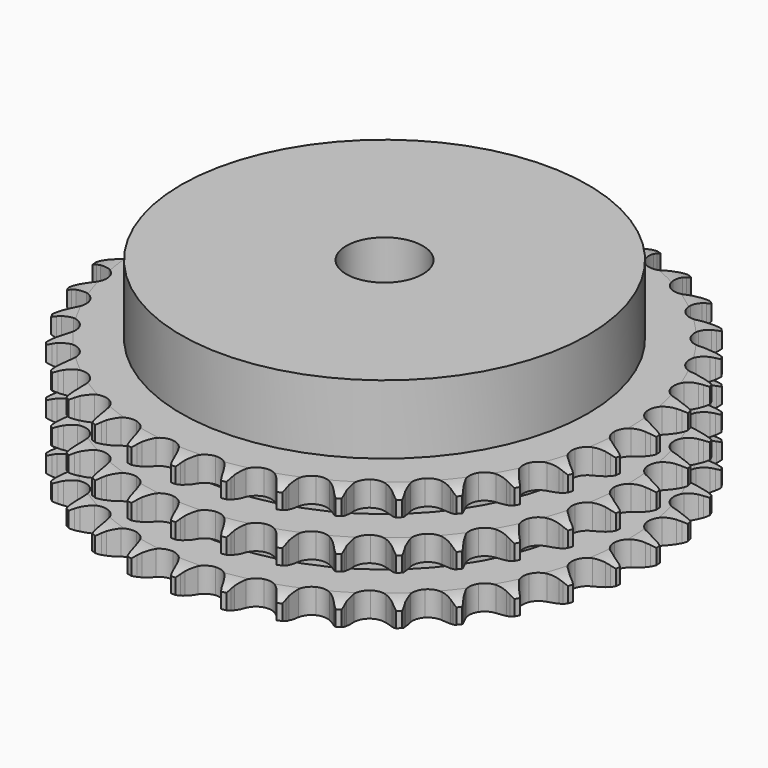
from build123d import *

# Parameters (mm, degrees)
PAD_DEPTH         = 25.6
SKETCH001_R       = 42.5
PAD001_DEPTH      = 40
SKETCH002_R       = 8
POCKET_DEPTH      = 0.001
POCKET_DEPTH_BACK = 40.001


with BuildPart() as part:
    # Sprocket → Pad (new body)
    with BuildSketch(Plane.XY):
        with BuildLine():
            ThreePointArc((-5.018589, 55.76109), (-4.446958, 54.986372), (-4.029689, 54.118712))
            Line((-4.029689, 54.118712), (-3.719914, 53.281922))
            ThreePointArc((-3.719914, 53.281922), (-3.228817, 52.200023), (-2.588432, 51.199231))
            ThreePointArc((-2.588432, 51.199231), (-1.447962, 50.243474), (0, 49.900618))
            ThreePointArc((0, 49.900618), (1.447962, 50.243474), (2.588432, 51.199231))
            ThreePointArc((2.588432, 51.199231), (3.228817, 52.200023), (3.719914, 53.281922))
            Line((3.719914, 53.281922), (4.029689, 54.118712))
            ThreePointArc((4.029689, 54.118712), (4.446958, 54.986372), (5.018589, 55.76109))
            ThreePointArc((5.018589, 55.76109), (5.442702, 54.896754), (5.698339, 53.968531))
            Line((5.698339, 53.968531), (5.853721, 53.089875))
            ThreePointArc((5.853721, 53.089875), (6.143745, 51.937675), (6.595141, 50.838621))
            ThreePointArc((6.595141, 50.838621), (7.546626, 49.694584), (8.910099, 49.098695))
            ThreePointArc((8.910099, 49.098695), (10.396011, 49.177497), (11.688811, 49.914256))
            Line((11.688811, 49.914256), (13.173987, 51.761443))
            ThreePointArc((13.173987, 51.761443), (13.390776, 52.15156), (13.628199, 52.529474))
            ThreePointArc((13.628199, 52.529474), (14.19369, 53.308684), (14.894465, 53.968882))
            ThreePointArc((14.894465, 53.968882), (15.157429, 53.042709), (15.243218, 52.083757))
            Line((15.243218, 52.083757), (15.239213, 51.191477))
            ThreePointArc((15.239213, 51.191477), (15.318843, 50.006007), (15.56674, 48.844015))
            ThreePointArc((15.56674, 48.844015), (16.298659, 47.548469), (17.533821, 46.718699))
            ThreePointArc((17.533821, 46.718699), (19.009924, 46.530915), (20.413501, 47.024995))
            Line((20.413501, 47.024995), (22.204639, 48.577309))
            ThreePointArc((22.204639, 48.577309), (22.487602, 48.922447), (22.788688, 49.251894))
            ThreePointArc((22.788688, 49.251894), (23.484225, 49.91761), (24.291621, 50.442071))
            ThreePointArc((24.291621, 50.442071), (24.384985, 49.483827), (24.298167, 48.524968))
            Line((24.298167, 48.524968), (24.134904, 47.647742))
            ThreePointArc((24.134904, 47.647742), (24.00158, 46.467105), (24.038012, 45.279523))
            ThreePointArc((24.038012, 45.279523), (24.52684, 43.874108), (25.593991, 42.837125))
            ThreePointArc((25.593991, 42.837125), (27.012843, 42.388791), (28.482085, 42.624313))
            Line((28.482085, 42.624313), (30.521614, 43.83186))
            ThreePointArc((30.521614, 43.83186), (30.861657, 44.120927), (31.21673, 44.391319))
            ThreePointArc((31.21673, 44.391319), (32.019957, 44.922143), (32.908024, 45.294009))
            ThreePointArc((32.908024, 45.294009), (32.828786, 44.334494), (32.572153, 43.406546))
            Line((32.572153, 43.406546), (32.254879, 42.57257))
            ThreePointArc((32.254879, 42.57257), (31.912887, 41.434712), (31.736682, 40.25971))
            ThreePointArc((31.736682, 40.25971), (31.966708, 38.789597), (32.831549, 37.578732))
            ThreePointArc((32.831549, 37.578732), (34.147546, 36.884256), (35.635231, 36.85365))
            Line((35.635231, 36.85365), (37.8576, 37.67762))
            ThreePointArc((37.8576, 37.67762), (38.243793, 37.901324), (38.64144, 38.10397))
            ThreePointArc((38.64144, 38.10397), (39.526541, 38.482842), (40.466736, 38.690161))
            ThreePointArc((40.466736, 38.690161), (40.217444, 37.760215), (39.799243, 36.893003))
            Line((39.799243, 36.893003), (39.338156, 36.12908))
            ThreePointArc((39.338156, 36.12908), (38.798487, 35.070573), (38.415309, 33.945916))
            ThreePointArc((38.415309, 33.945916), (38.37914, 32.458356), (39.013874, 31.112526))
            ThreePointArc((39.013874, 31.112526), (40.184719, 30.194231), (41.643032, 29.89848))
            Line((41.643032, 29.89848), (43.976812, 30.312389))
            ThreePointArc((43.976812, 30.312389), (44.396742, 30.463541), (44.824183, 30.591927))
            ThreePointArc((44.824183, 30.591927), (45.76271, 30.80667), (46.724814, 30.84278))
            ThreePointArc((46.724814, 30.84278), (46.31348, 29.972291), (45.747153, 29.193688))
            Line((45.747153, 29.193688), (45.157072, 28.524372))
            ThreePointArc((45.157072, 28.524372), (44.437072, 27.579238), (43.859237, 26.541073))
            ThreePointArc((43.859237, 26.541073), (43.558034, 25.083877), (43.942261, 23.646339))
            ThreePointArc((43.942261, 23.646339), (44.930322, 22.533739), (46.312391, 21.982349))
            Line((46.312391, 21.982349), (48.682573, 21.972894))
            ThreePointArc((48.682573, 21.972894), (49.122744, 22.046635), (49.56624, 22.096636))
            ThreePointArc((49.56624, 22.096636), (50.528028, 22.140347), (51.481118, 22.004086))
            ThreePointArc((51.481118, 22.004086), (50.920962, 21.221032), (50.224712, 20.556064))
            Line((50.224712, 20.556064), (49.524602, 20.002867))
            ThreePointArc((49.524602, 20.002867), (48.647413, 19.201482), (47.893493, 18.283178))
            ThreePointArc((47.893493, 18.283178), (47.336938, 16.903181), (47.458308, 15.420139))
            ThreePointArc((47.458308, 15.420139), (48.231828, 14.148993), (49.493232, 13.359687))
            Line((49.493232, 13.359687), (51.823635, 12.927171))
            ThreePointArc((51.823635, 12.927171), (52.2699, 12.921132), (52.715196, 12.89114))
            ThreePointArc((52.715196, 12.89114), (53.669334, 12.762415), (54.582777, 12.458163))
            ThreePointArc((54.582777, 12.458163), (53.891803, 11.787713), (53.088007, 11.257751))
            Line((53.088007, 11.257751), (52.300371, 10.838454))
            ThreePointArc((52.300371, 10.838454), (51.294186, 10.206576), (50.388412, 9.437646))
            ThreePointArc((50.388412, 9.437646), (49.594394, 8.179203), (49.449006, 6.698323))
            ThreePointArc((49.449006, 6.698323), (49.983123, 5.309488), (51.083319, 4.307634))
            Line((51.083319, 4.307634), (53.299044, 3.465959))
            ThreePointArc((53.299044, 3.465959), (53.737058, 3.380333), (54.169843, 3.271312))
            ThreePointArc((54.169843, 3.271312), (55.085662, 2.974288), (55.9301, 2.511824))
            ThreePointArc((55.9301, 2.511824), (55.130517, 1.975526), (54.24501, 1.597605))
            Line((54.24501, 1.597605), (53.395164, 1.325683))
            ThreePointArc((53.395164, 1.325683), (52.292322, 0.883621), (51.263806, 0.288781))
            ThreePointArc((51.263806, 0.288781), (50.257844, -0.807661), (49.850371, -2.238783))
            ThreePointArc((49.850371, -2.238783), (50.127919, -3.700669), (51.031547, -4.882871))
            Line((51.031547, -4.882871), (53.061377, -6.106652))
            ThreePointArc((53.061377, -6.106652), (53.477063, -6.269112), (53.883427, -6.453658))
            ThreePointArc((53.883427, -6.453658), (54.731493, -6.909435), (55.479784, -7.515247))
            ThreePointArc((55.479784, -7.515247), (54.597291, -7.900155), (53.658533, -8.11389))
            Line((53.658533, -8.11389), (52.773791, -8.229695))
            ThreePointArc((52.773791, -8.229695), (51.609739, -8.467734), (50.49154, -8.869366))
            ThreePointArc((50.49154, -8.869366), (49.305967, -9.768566), (48.649505, -11.103932))
            ThreePointArc((48.649505, -11.103932), (48.661563, -12.591883), (49.339579, -13.916436))
            Line((49.339579, -13.916436), (51.118274, -15.48299))
            ThreePointArc((51.118274, -15.48299), (51.498272, -15.717064), (51.865153, -15.971203))
            ThreePointArc((51.865153, -15.971203), (52.618208, -16.571083), (53.246302, -17.300772))
            ThreePointArc((53.246302, -17.300772), (52.309263, -17.521919), (51.347428, -17.564598))
            Line((51.347428, -17.564598), (50.456226, -17.520565))
            ThreePointArc((50.456226, -17.520565), (49.268377, -17.546929), (48.096433, -17.742444))
            ThreePointArc((48.096433, -17.742444), (46.769355, -18.415501), (45.885004, -19.612192))
            ThreePointArc((45.885004, -19.612192), (45.631184, -21.078384), (46.061796, -22.502715))
            Line((46.061796, -22.502715), (47.532188, -24.361693))
            ThreePointArc((47.532188, -24.361693), (47.864283, -24.659855), (48.17989, -24.97542))
            ThreePointArc((48.17989, -24.97542), (48.813731, -25.700123), (49.301439, -26.530236))
            ThreePointArc((49.301439, -26.530236), (48.339972, -26.580514), (47.385973, -26.450765))
            Line((47.385973, -26.450765), (46.516956, -26.248309))
            ThreePointArc((46.516956, -26.248309), (45.343489, -26.062151), (44.155468, -26.045265))
            ThreePointArc((44.155468, -26.045265), (42.729537, -26.470547), (41.645721, -27.4901))
            ThreePointArc((41.645721, -27.4901), (41.134181, -28.887408), (41.303549, -30.365738))
            Line((41.303549, -30.365738), (42.418378, -32.45739))
            ThreePointArc((42.418378, -32.45739), (42.691897, -32.810059), (42.946086, -33.176906))
            ThreePointArc((42.946086, -33.176906), (43.44034, -34.003139), (43.771988, -34.906996))
            ThreePointArc((43.771988, -34.906996), (42.816994, -34.784789), (41.901495, -34.486782))
            Line((41.901495, -34.486782), (41.082593, -34.132411))
            ThreePointArc((41.082593, -34.132411), (39.961224, -33.739714), (38.79531, -33.510971))
            ThreePointArc((38.79531, -33.510971), (37.316357, -33.674808), (36.06791, -34.484453))
            ThreePointArc((36.06791, -34.484453), (35.315092, -35.767968), (35.217772, -37.252782))
            Line((35.217772, -37.252782), (35.941206, -39.50988))
            ThreePointArc((35.941206, -39.50988), (36.147359, -39.905721), (36.33196, -40.312059))
            ThreePointArc((36.33196, -40.312059), (36.670741, -41.213267), (36.83567, -42.161817))
            ThreePointArc((36.83567, -42.161817), (35.917844, -41.871053), (35.070268, -41.414366))
            Line((35.070268, -41.414366), (34.327801, -40.91947))
            ThreePointArc((34.327801, -40.91947), (33.294572, -40.332855), (32.188239, -39.899606))
            ThreePointArc((32.188239, -39.899606), (30.703799, -39.796733), (29.330847, -40.370448))
            ThreePointArc((29.330847, -40.370448), (28.360947, -41.498915), (28.000067, -42.94249))
            Line((28.000067, -42.94249), (28.308854, -45.29249))
            ThreePointArc((28.308854, -45.29249), (28.441014, -45.718779), (28.550094, -46.15155))
            ThreePointArc((28.550094, -46.15155), (28.722514, -47.098766), (28.715422, -48.061522))
            ThreePointArc((28.715422, -48.061522), (27.864264, -47.611547), (27.111854, -47.010858))
            Line((27.111854, -47.010858), (26.469686, -46.391343))
            ThreePointArc((26.469686, -46.391343), (25.557805, -45.629665), (24.546611, -45.005834))
            ThreePointArc((24.546611, -45.005834), (23.104395, -44.639558), (21.651067, -44.958903))
            ThreePointArc((21.651067, -44.958903), (20.495257, -45.896053), (19.882417, -47.251992))
            Line((19.882417, -47.251992), (19.766633, -49.619363))
            ThreePointArc((19.766633, -49.619363), (19.820552, -50.062399), (19.850605, -50.507691))
            ThreePointArc((19.850605, -50.507691), (19.851122, -51.470473), (19.672238, -52.41649))
            ThreePointArc((19.672238, -52.41649), (18.915104, -51.821766), (18.282042, -51.096383))
            Line((18.282042, -51.096383), (17.760813, -50.37216))
            ThreePointArc((17.760813, -50.37216), (16.99959, -49.4599), (16.116034, -48.665539))
            ThreePointArc((16.116034, -48.665539), (14.762397, -48.047631), (13.275403, -48.102342))
            ThreePointArc((13.275403, -48.102342), (11.970834, -48.818054), (11.125729, -50.042775))
            Line((11.125729, -50.042775), (10.589096, -52.351428))
            ThreePointArc((10.589096, -52.351428), (10.563041, -52.796972), (10.513101, -53.240474))
            ThreePointArc((10.513101, -53.240474), (10.341698, -54.187876), (9.996771, -55.086749))
            ThreePointArc((9.996771, -55.086749), (9.357997, -54.366391), (8.864631, -53.539628))
            Line((8.864631, -53.539628), (8.481093, -52.733974))
            ThreePointArc((8.481093, -52.733974), (7.894993, -51.700453), (7.167476, -50.761093))
            ThreePointArc((7.167476, -50.761093), (5.945923, -49.911414), (4.473057, -49.699733))
            ThreePointArc((4.473057, -49.699733), (3.061657, -50.171002), (2.011452, -51.225143))
            Line((2.011452, -51.225143), (1.071216, -53.400875))
            ThreePointArc((1.071216, -53.400875), (0.966025, -53.834607), (0.837697, -54.262065))
            ThreePointArc((0.837697, -54.262065), (0.499884, -55.163636), (0, -55.986475))
            ThreePointArc((0, -55.986475), (-0.499884, -55.163636), (-0.837697, -54.262065))
            Line((-0.837697, -54.262065), (-1.071216, -53.400875))
            ThreePointArc((-1.071216, -53.400875), (-1.463355, -52.27931), (-2.011452, -51.225143))
            ThreePointArc((-2.011452, -51.225143), (-3.061657, -50.171002), (-4.473057, -49.699733))
            ThreePointArc((-4.473057, -49.699733), (-5.945923, -49.911414), (-7.167476, -50.761093))
            Line((-7.167476, -50.761093), (-8.481093, -52.733974))
            ThreePointArc((-8.481093, -52.733974), (-8.662039, -53.141953), (-8.864631, -53.539628))
            ThreePointArc((-8.864631, -53.539628), (-9.357997, -54.366391), (-9.996771, -55.086749))
            ThreePointArc((-9.996771, -55.086749), (-10.341698, -54.187876), (-10.513101, -53.240474))
            Line((-10.513101, -53.240474), (-10.589096, -52.351428))
            ThreePointArc((-10.589096, -52.351428), (-10.774669, -51.177868), (-11.125729, -50.042775))
            ThreePointArc((-11.125729, -50.042775), (-11.970834, -48.818054), (-13.275403, -48.102342))
            ThreePointArc((-13.275403, -48.102342), (-14.762397, -48.047631), (-16.116034, -48.665539))
            Line((-16.116034, -48.665539), (-17.760813, -50.37216))
            ThreePointArc((-17.760813, -50.37216), (-18.011699, -50.741273), (-18.282042, -51.096383))
            ThreePointArc((-18.282042, -51.096383), (-18.915104, -51.821766), (-19.672238, -52.41649))
            ThreePointArc((-19.672238, -52.41649), (-19.851122, -51.470473), (-19.850605, -50.507691))
            Line((-19.850605, -50.507691), (-19.766633, -49.619363))
            ThreePointArc((-19.766633, -49.619363), (-19.739677, -48.431527), (-19.882417, -47.251992))
            ThreePointArc((-19.882417, -47.251992), (-20.495257, -45.896053), (-21.651067, -44.958903))
            ThreePointArc((-21.651067, -44.958903), (-23.104395, -44.639558), (-24.546611, -45.005834))
            Line((-24.546611, -45.005834), (-26.469686, -46.391343))
            ThreePointArc((-26.469686, -46.391343), (-26.782447, -46.709727), (-27.111854, -47.010858))
            ThreePointArc((-27.111854, -47.010858), (-27.864264, -47.611547), (-28.715422, -48.061522))
            ThreePointArc((-28.715422, -48.061522), (-28.722514, -47.098766), (-28.550094, -46.15155))
            Line((-28.550094, -46.15155), (-28.308854, -45.29249))
            ThreePointArc((-28.308854, -45.29249), (-28.070236, -44.128557), (-28.000067, -42.94249))
            ThreePointArc((-28.000067, -42.94249), (-28.360947, -41.498915), (-29.330847, -40.370448))
            ThreePointArc((-29.330847, -40.370448), (-30.703799, -39.796733), (-32.188239, -39.899606))
            Line((-32.188239, -39.899606), (-34.327801, -40.91947))
            ThreePointArc((-34.327801, -40.91947), (-34.692386, -41.176892), (-35.070268, -41.414366))
            ThreePointArc((-35.070268, -41.414366), (-35.917844, -41.871053), (-36.83567, -42.161817))
            ThreePointArc((-36.83567, -42.161817), (-36.670741, -41.213267), (-36.33196, -40.312059))
            Line((-36.33196, -40.312059), (-35.941206, -39.50988))
            ThreePointArc((-35.941206, -39.50988), (-35.498594, -38.407259), (-35.217772, -37.252782))
            ThreePointArc((-35.217772, -37.252782), (-35.315092, -35.767968), (-36.06791, -34.484453))
            ThreePointArc((-36.06791, -34.484453), (-37.316357, -33.674808), (-38.79531, -33.510971))
            Line((-38.79531, -33.510971), (-41.082593, -34.132411))
            ThreePointArc((-41.082593, -34.132411), (-41.487283, -34.320597), (-41.901495, -34.486782))
            ThreePointArc((-41.901495, -34.486782), (-42.816994, -34.784789), (-43.771988, -34.906996))
            ThreePointArc((-43.771988, -34.906996), (-43.44034, -34.003139), (-42.946086, -33.176906))
            Line((-42.946086, -33.176906), (-42.418378, -32.45739))
            ThreePointArc((-42.418378, -32.45739), (-41.785998, -31.45152), (-41.303549, -30.365738))
            ThreePointArc((-41.303549, -30.365738), (-41.134181, -28.887408), (-41.645721, -27.4901))
            ThreePointArc((-41.645721, -27.4901), (-42.729537, -26.470547), (-44.155468, -26.045265))
            Line((-44.155468, -26.045265), (-46.516956, -26.248309))
            ThreePointArc((-46.516956, -26.248309), (-46.948745, -26.361211), (-47.385973, -26.450765))
            ThreePointArc((-47.385973, -26.450765), (-48.339972, -26.580514), (-49.301439, -26.530236))
            ThreePointArc((-49.301439, -26.530236), (-48.813731, -25.700123), (-48.17989, -24.97542))
            Line((-48.17989, -24.97542), (-47.532188, -24.361693))
            ThreePointArc((-47.532188, -24.361693), (-46.730365, -23.484903), (-46.061796, -22.502715))
            ThreePointArc((-46.061796, -22.502715), (-45.631184, -21.078384), (-45.885004, -19.612192))
            ThreePointArc((-45.885004, -19.612192), (-46.769355, -18.415501), (-48.096433, -17.742444))
            Line((-48.096433, -17.742444), (-50.456226, -17.520565))
            ThreePointArc((-50.456226, -17.520565), (-50.901235, -17.554553), (-51.347428, -17.564598))
            ThreePointArc((-51.347428, -17.564598), (-52.309263, -17.521919), (-53.246302, -17.300772))
            ThreePointArc((-53.246302, -17.300772), (-52.618208, -16.571083), (-51.865153, -15.971203))
            Line((-51.865153, -15.971203), (-51.118274, -15.48299))
            ThreePointArc((-51.118274, -15.48299), (-50.17278, -14.763462), (-49.339579, -13.916436))
            ThreePointArc((-49.339579, -13.916436), (-48.661563, -12.591883), (-48.649505, -11.103932))
            ThreePointArc((-48.649505, -11.103932), (-49.305967, -9.768566), (-50.49154, -8.869366))
            Line((-50.49154, -8.869366), (-52.773791, -8.229695))
            ThreePointArc((-52.773791, -8.229695), (-53.217718, -8.183678), (-53.658533, -8.11389))
            ThreePointArc((-53.658533, -8.11389), (-54.597291, -7.900155), (-55.479784, -7.515247))
            ThreePointArc((-55.479784, -7.515247), (-54.731493, -6.909435), (-53.883427, -6.453658))
            Line((-53.883427, -6.453658), (-53.061377, -6.106652))
            ThreePointArc((-53.061377, -6.106652), (-52.002601, -5.567511), (-51.031547, -4.882871))
            ThreePointArc((-51.031547, -4.882871), (-50.127919, -3.700669), (-49.850371, -2.238783))
            ThreePointArc((-49.850371, -2.238783), (-50.257844, -0.807661), (-51.263806, 0.288781))
            Line((-51.263806, 0.288781), (-53.395164, 1.325683))
            ThreePointArc((-53.395164, 1.325683), (-53.823739, 1.450228), (-54.24501, 1.597605))
            ThreePointArc((-54.24501, 1.597605), (-55.130517, 1.975526), (-55.9301, 2.511824))
            ThreePointArc((-55.9301, 2.511824), (-55.085662, 2.974288), (-54.169843, 3.271312))
            Line((-54.169843, 3.271312), (-53.299044, 3.465959))
            ThreePointArc((-53.299044, 3.465959), (-52.161016, 3.807384), (-51.083319, 4.307634))
            ThreePointArc((-51.083319, 4.307634), (-49.983123, 5.309488), (-49.449006, 6.698323))
            ThreePointArc((-49.449006, 6.698323), (-49.594394, 8.179203), (-50.388412, 9.437646))
            Line((-50.388412, 9.437646), (-52.300371, 10.838454))
            ThreePointArc((-52.300371, 10.838454), (-52.699822, 11.037522), (-53.088007, 11.257751))
            ThreePointArc((-53.088007, 11.257751), (-53.891803, 11.787713), (-54.582777, 12.458163))
            ThreePointArc((-54.582777, 12.458163), (-53.669334, 12.762415), (-52.715196, 12.89114))
            Line((-52.715196, 12.89114), (-51.823635, 12.927171))
            ThreePointArc((-51.823635, 12.927171), (-50.642932, 13.059906), (-49.493232, 13.359687))
            ThreePointArc((-49.493232, 13.359687), (-48.231828, 14.148993), (-47.458308, 15.420139))
            ThreePointArc((-47.458308, 15.420139), (-47.336938, 16.903181), (-47.893493, 18.283178))
            Line((-47.893493, 18.283178), (-49.524602, 20.002867))
            ThreePointArc((-49.524602, 20.002867), (-49.882088, 20.270061), (-50.224712, 20.556064))
            ThreePointArc((-50.224712, 20.556064), (-50.920962, 21.221032), (-51.481118, 22.004086))
            ThreePointArc((-51.481118, 22.004086), (-50.528028, 22.140347), (-49.56624, 22.096636))
            Line((-49.56624, 22.096636), (-48.682573, 21.972894))
            ThreePointArc((-48.682573, 21.972894), (-47.497143, 21.892673), (-46.312391, 21.982349))
            ThreePointArc((-46.312391, 21.982349), (-44.930322, 22.533739), (-43.942261, 23.646339))
            ThreePointArc((-43.942261, 23.646339), (-43.558034, 25.083877), (-43.859237, 26.541073))
            Line((-43.859237, 26.541073), (-45.157072, 28.524372))
            ThreePointArc((-45.157072, 28.524372), (-45.461103, 28.851103), (-45.747153, 29.193688))
            ThreePointArc((-45.747153, 29.193688), (-46.31348, 29.972291), (-46.724814, 30.84278))
            ThreePointArc((-46.724814, 30.84278), (-45.76271, 30.80667), (-44.824183, 30.591927))
            Line((-44.824183, 30.591927), (-43.976812, 30.312389))
            ThreePointArc((-43.976812, 30.312389), (-42.824757, 30.021791), (-41.643032, 29.89848))
            ThreePointArc((-41.643032, 29.89848), (-40.184719, 30.194231), (-39.013874, 31.112526))
            ThreePointArc((-39.013874, 31.112526), (-38.37914, 32.458356), (-38.415309, 33.945916))
            Line((-38.415309, 33.945916), (-39.338156, 36.12908))
            ThreePointArc((-39.338156, 36.12908), (-39.578961, 36.504848), (-39.799243, 36.893003))
            ThreePointArc((-39.799243, 36.893003), (-40.217444, 37.760215), (-40.466736, 38.690161))
            ThreePointArc((-40.466736, 38.690161), (-39.526541, 38.482842), (-38.64144, 38.10397))
            Line((-38.64144, 38.10397), (-37.8576, 37.67762))
            ThreePointArc((-37.8576, 37.67762), (-36.775947, 37.185984), (-35.635231, 36.85365))
            ThreePointArc((-35.635231, 36.85365), (-34.147546, 36.884256), (-32.831549, 37.578732))
            ThreePointArc((-32.831549, 37.578732), (-31.966708, 38.789597), (-31.736682, 40.25971))
            Line((-31.736682, 40.25971), (-32.254879, 42.57257))
            ThreePointArc((-32.254879, 42.57257), (-32.424719, 42.985296), (-32.572153, 43.406546))
            ThreePointArc((-32.572153, 43.406546), (-32.828786, 44.334494), (-32.908024, 45.294009))
            ThreePointArc((-32.908024, 45.294009), (-32.019957, 44.922143), (-31.21673, 44.391319))
            Line((-31.21673, 44.391319), (-30.521614, 43.83186))
            ThreePointArc((-30.521614, 43.83186), (-29.545129, 43.154989), (-28.482085, 42.624313))
            ThreePointArc((-28.482085, 42.624313), (-27.012843, 42.388791), (-25.593991, 42.837125))
            ThreePointArc((-25.593991, 42.837125), (-24.52684, 43.874108), (-24.038012, 45.279523))
            Line((-24.038012, 45.279523), (-24.134904, 47.647742))
            ThreePointArc((-24.134904, 47.647742), (-24.228319, 48.084162), (-24.298167, 48.524968))
            ThreePointArc((-24.298167, 48.524968), (-24.384985, 49.483827), (-24.291621, 50.442071))
            ThreePointArc((-24.291621, 50.442071), (-23.484225, 49.91761), (-22.788688, 49.251894))
            Line((-22.788688, 49.251894), (-22.204639, 48.577309))
            ThreePointArc((-22.204639, 48.577309), (-21.364706, 47.736957), (-20.413501, 47.024995))
            ThreePointArc((-20.413501, 47.024995), (-19.009924, 46.530915), (-17.533821, 46.718699))
            ThreePointArc((-17.533821, 46.718699), (-16.298659, 47.548469), (-15.56674, 48.844015))
            Line((-15.56674, 48.844015), (-15.239213, 51.191477))
            ThreePointArc((-15.239213, 51.191477), (-15.253202, 51.637563), (-15.243218, 52.083757))
            ThreePointArc((-15.243218, 52.083757), (-15.157429, 53.042709), (-14.894465, 53.968882))
            ThreePointArc((-14.894465, 53.968882), (-14.19369, 53.308684), (-13.628199, 52.529474))
            Line((-13.628199, 52.529474), (-13.173987, 51.761443))
            ThreePointArc((-13.173987, 51.761443), (-12.497603, 50.78462), (-11.688811, 49.914256))
            ThreePointArc((-11.688811, 49.914256), (-10.396011, 49.177497), (-8.910099, 49.098695))
            ThreePointArc((-8.910099, 49.098695), (-7.546626, 49.694584), (-6.595141, 50.838621))
            Line((-6.595141, 50.838621), (-5.853721, 53.089875))
            ThreePointArc((-5.853721, 53.089875), (-5.787833, 53.531291), (-5.698339, 53.968531))
            ThreePointArc((-5.698339, 53.968531), (-5.442702, 54.896754), (-5.018589, 55.76109))
        make_face()
    extrude(amount=PAD_DEPTH)

    # Sketch → Groove (revolve, cut)
    with BuildSketch(Plane.XZ):
        with BuildLine():
            ThreePointArc((50.841101, 0), (53.077169, 0.253206), (55.2, 1))
            Line((55.2, 1), (55.2, 4.2))
            ThreePointArc((55.2, 4.2), (53.077169, 4.946794), (50.841101, 5.2))
            Line((42.5, 5.2), (50.841101, 5.2))
            Line((42.5, 5.2), (42.5, 10.2))
            Line((42.5, 10.2), (50.841101, 10.2))
            ThreePointArc((50.841101, 10.2), (53.077169, 10.453206), (55.2, 11.2))
            Line((55.2, 14.4), (55.2, 11.2))
            ThreePointArc((55.2, 14.4), (53.077169, 15.146794), (50.841101, 15.4))
            Line((42.5, 15.4), (50.841101, 15.4))
            Line((42.5, 20.4), (42.5, 15.4))
            Line((50.841101, 20.4), (42.5, 20.4))
            ThreePointArc((50.841101, 20.4), (53.077169, 20.653206), (55.2, 21.4))
            Line((55.2, 21.4), (55.2, 24.6))
            ThreePointArc((55.2, 24.6), (53.077169, 25.346794), (50.841101, 25.6))
            Line((50.841101, 25.6), (65.2, 25.6))
            Line((65.2, 25.6), (65.2, 0))
            Line((50.841101, 0), (65.2, 0))
        make_face()
    revolve(axis=Axis((0, 0, 0), (0, 0, 1)), mode=Mode.SUBTRACT)

    # Sketch001 → Pad001 (join)
    with BuildSketch(Plane.XY):
        Circle(SKETCH001_R)
    extrude(amount=PAD001_DEPTH)

    # Sketch002 → Pocket (cut, two sides)
    with BuildSketch(Plane.XY) as pocket_sk:
        Circle(SKETCH002_R)
    extrude(amount=-POCKET_DEPTH, mode=Mode.SUBTRACT)
    extrude(pocket_sk.sketch, amount=POCKET_DEPTH_BACK, mode=Mode.SUBTRACT)


solid = part.part
